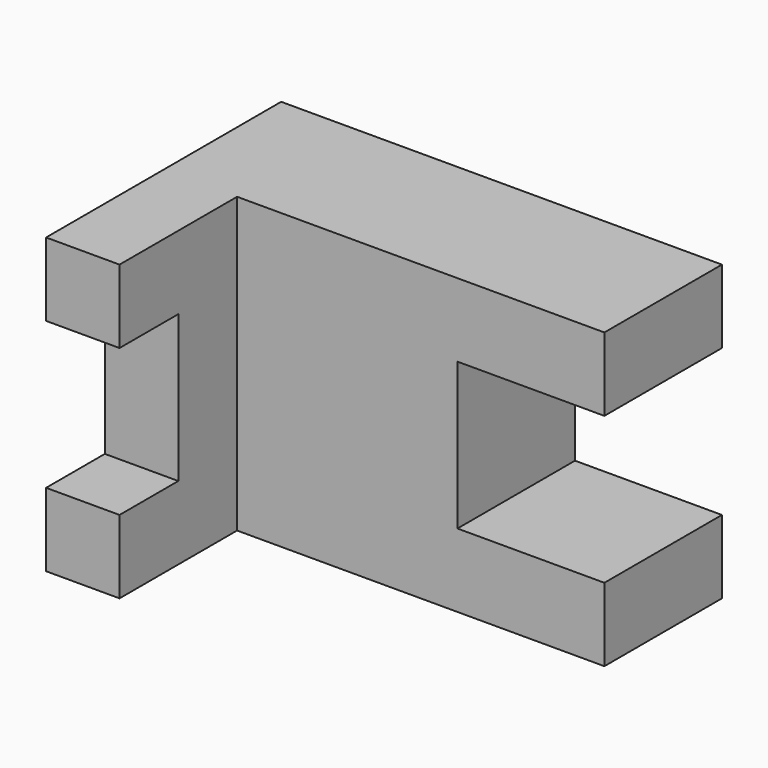
from build123d import *

# Parameters (mm, degrees)
F0_W     = 25.4
F0_H     = 25.4
F1_DEPTH = 12.7
F2_W     = 12.7
F2_H     = 6.35
F3_DEPTH = 12.7
F4_W     = 6.35
F4_H     = 12.7
F5_DEPTH = 6.35
F6_W     = 6.35
F6_H     = 6.35
F7_DEPTH = 12.7
F8_W     = 6.35
F8_H     = 12.7
F9_DEPTH = 6.35


with BuildPart() as f1:
    # F0 (on Front) → F1 (new body)
    with BuildSketch(Plane.XZ):
        with Locations((12.7, 12.7)):
            Rectangle(F0_W, F0_H)
    extrude(amount=F1_DEPTH)

    # F2 (on face) → F3 (join)
    with BuildSketch(Plane.XZ.offset(12.7)):
        with Locations((31.75, 22.225)):
            Rectangle(F2_W, F2_H)
        with Locations((31.75, 3.175)):
            Rectangle(F2_W, F2_H)
    extrude(amount=-F3_DEPTH)

    # F4 (on face) → F5 (join)
    with BuildSketch(Plane(origin=(0, 0, 0), x_dir=(1, 0, 0), z_dir=(0, 0, -1))):
        with Locations((3.175, 19.05)):
            Rectangle(F4_W, F4_H)
    extrude(amount=-F5_DEPTH)

    # F6 (on face) → F7 (join)
    with BuildSketch(Plane.XZ.offset(12.7)):
        with Locations((3.175, 22.225)):
            Rectangle(F6_W, F6_H)
    extrude(amount=F7_DEPTH)

    # F8 (on face) → F9 (join)
    with BuildSketch(Plane.XZ.offset(12.7)):
        with Locations((3.175, 12.7)):
            Rectangle(F8_W, F8_H)
    extrude(amount=F9_DEPTH)


solid = f1.part
